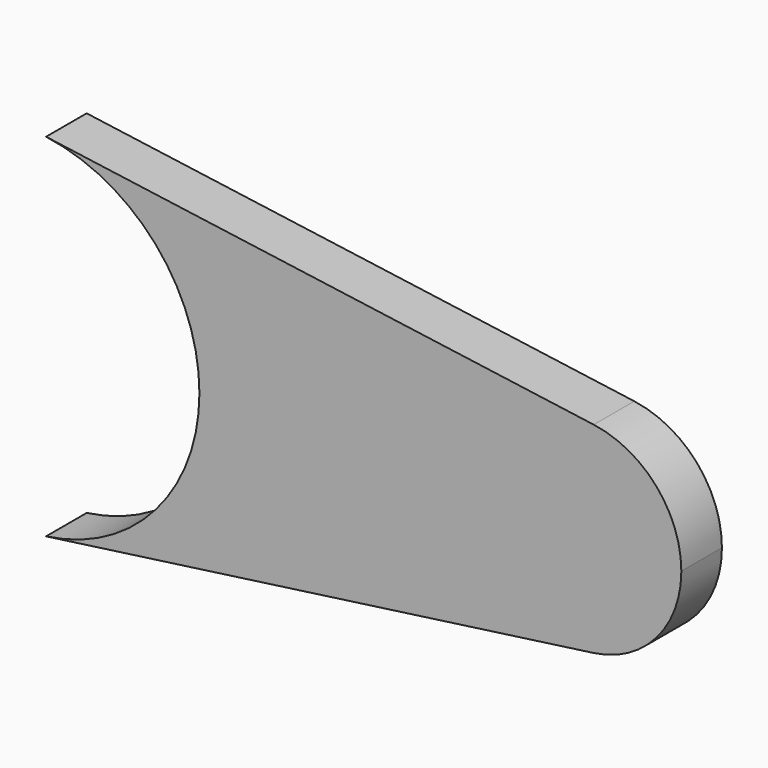
from build123d import *

# Parameters (mm, degrees)
F1_DEPTH = 10


with BuildPart() as f1:
    # F0 (on Front) → F1 (new body)
    with BuildSketch(Plane.XZ):
        with BuildLine():
            ThreePointArc((4.772727, 34.67306), (26.382243, 22.999506), (35, 0))
            ThreePointArc((35, 0), (26.382243, -22.999506), (4.772727, -34.67306))
            Line((4.772727, -34.67306), (112.727273, -19.813177))
            ThreePointArc((112.727273, -19.813177), (90, 0), (112.727273, 19.813177))
            Line((112.727273, 19.813177), (4.772727, 34.67306))
        make_face()
        with BuildLine():
            ThreePointArc((130, 0), (125.075567, 13.142575), (112.727273, 19.813177))
            ThreePointArc((112.727273, 19.813177), (90, 0), (112.727273, -19.813177))
            ThreePointArc((112.727273, -19.813177), (125.075567, -13.142575), (130, 0))
        make_face()
    extrude(amount=F1_DEPTH)


solid = f1.part
